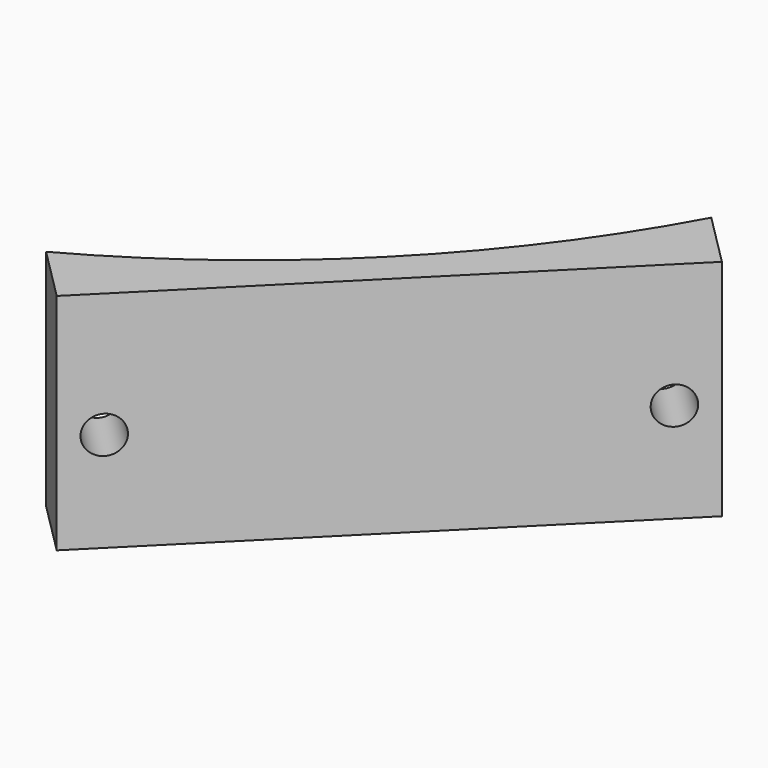
from build123d import *

# Parameters (mm, degrees)
CYLINDER1768_R              = 1.5
CYLINDER1768_DEPTH          = 60
CYLINDER1765_R              = 1.5
CYLINDER1765_DEPTH          = 60
CYLINDER1766_R              = 1.5
CYLINDER1766_DEPTH          = 60
CYLINDER1767_R              = 1.5
CYLINDER1767_DEPTH          = 60
COMPOUND900_PLACEMENT_ANGLE = 225
CYLINDER1771_R              = 1.5
CYLINDER1771_DEPTH          = 50
COMPOUND903_PLACEMENT_ANGLE = 225
CYLINDER1770_R              = 1.5
CYLINDER1770_DEPTH          = 50
COMPOUND904_PLACEMENT_ANGLE = 225
CYLINDER1769_R              = 74
CYLINDER1769_DEPTH          = 40
BOX718_W                    = 42
BOX718_H                    = 10
BOX718_DEPTH                = 18
COMPOUND901_PLACEMENT_ANGLE = 225


with BuildPart() as obj1:
    # Cylinder1768 → Cylinder1768 (new body)
    with BuildSketch(Plane(origin=(-24, 73, -80), x_dir=(1, 0, 0), z_dir=(0, 0, 1))):
        Circle(CYLINDER1768_R)
    extrude(amount=CYLINDER1768_DEPTH)


with BuildPart() as obj2:
    # Cylinder1765 → Cylinder1765 (new body)
    with BuildSketch(Plane(origin=(-15, 135, -80), x_dir=(1, 0, 0), z_dir=(0, 0, 1))):
        Circle(CYLINDER1765_R)
    extrude(amount=CYLINDER1765_DEPTH)


with BuildPart() as obj3:
    # Cylinder1766 → Cylinder1766 (new body)
    with BuildSketch(Plane(origin=(15, 135, -80), x_dir=(1, 0, 0), z_dir=(0, 0, 1))):
        Circle(CYLINDER1766_R)
    extrude(amount=CYLINDER1766_DEPTH)


with BuildPart() as compound900:
    # Cylinder1767 → Cylinder1767 (new body)
    with BuildSketch(Plane(origin=(24, 73, -80), x_dir=(1, 0, 0), z_dir=(0, 0, 1))):
        Circle(CYLINDER1767_R)
    extrude(amount=CYLINDER1767_DEPTH)

    # Compound900: union obj1, obj2, obj3
    add(obj1.part)
    add(obj2.part)
    add(obj3.part)


with BuildPart() as compound900_1:
    # Compound900 placement: moved
    add(compound900.part.moved(Location((0, 0, 100))).rotate(Axis((0, 0, 100), (0, 0, 1)), COMPOUND900_PLACEMENT_ANGLE))


with BuildPart() as compound903:
    # Cylinder1771 → Cylinder1771 (new body)
    with BuildSketch(Plane(origin=(18, 100, 72), x_dir=(1, 0, 0), z_dir=(0, -1, 0))):
        Circle(CYLINDER1771_R)
    extrude(amount=CYLINDER1771_DEPTH)


with BuildPart() as compound903_1:
    # Compound903 placement: moved
    add(compound903.part.rotate(Axis((0, 0, 0), (0, 0, 1)), COMPOUND903_PLACEMENT_ANGLE))


with BuildPart() as compound902:
    # Cylinder1770 → Cylinder1770 (new body)
    with BuildSketch(Plane(origin=(-18, 100, 72), x_dir=(1, 0, 0), z_dir=(0, -1, 0))):
        Circle(CYLINDER1770_R)
    extrude(amount=CYLINDER1770_DEPTH)


with BuildPart() as compound902_1:
    # Compound904 placement: moved
    add(compound902.part.rotate(Axis((0, 0, 0), (0, 0, 1)), COMPOUND904_PLACEMENT_ANGLE))

    # Compound902: union Compound903
    add(compound903_1.part)


with BuildPart() as compound902_2:
    # Compound902 placement: moved
    add(compound902_1.part.moved(Location((0, 0, 1))))


with BuildPart() as obj4:
    # Cylinder1769 → Cylinder1769 (new body)
    with BuildSketch(Plane.XY.offset(44)):
        Circle(CYLINDER1769_R)
    extrude(amount=CYLINDER1769_DEPTH)


with BuildPart() as cut527:
    # Box718 → Box718 (new body)
    with BuildSketch(Plane(origin=(-21, -23, 22), x_dir=(1, 0, 0), z_dir=(0, 0, 1))):
        with Locations((21, 5)):
            Rectangle(BOX718_W, BOX718_H)
    extrude(amount=BOX718_DEPTH)


with BuildPart() as cut527_1:
    # Compound901 placement: moved
    add(cut527.part.moved(Location((63.64, -63.64, 43))).rotate(Axis((63.64, -63.64, 43), (0, 0, 1)), COMPOUND901_PLACEMENT_ANGLE))

    # Cut525: cut obj4
    add(obj4.part, mode=Mode.SUBTRACT)

    # Cut526: cut Compound902
    add(compound902_2.part, mode=Mode.SUBTRACT)

    # Cut527: cut Compound900
    add(compound900_1.part, mode=Mode.SUBTRACT)


solid = cut527_1.part
